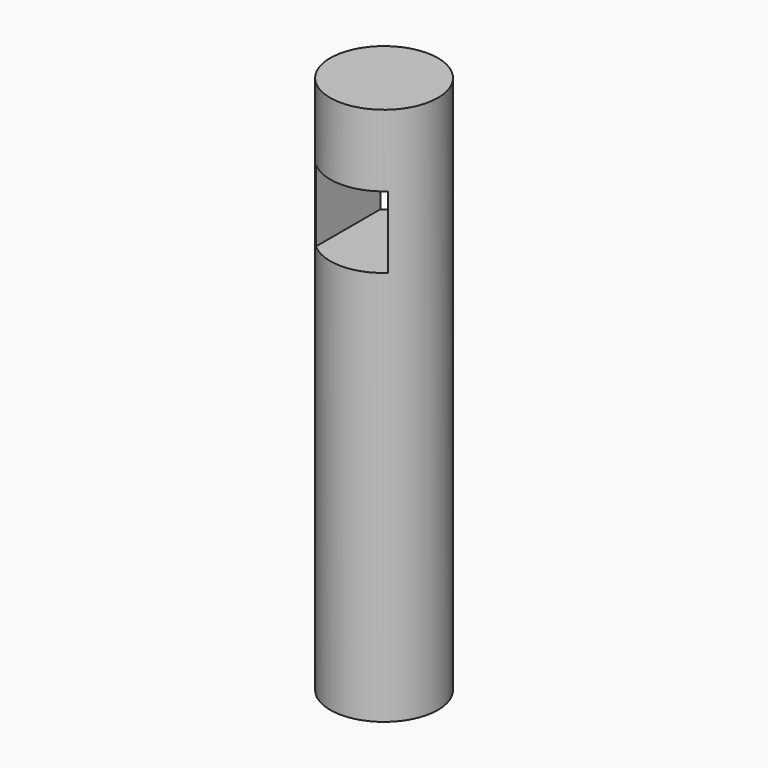
from build123d import *

# Parameters (mm, degrees)
F0_R     = 15
F1_DEPTH = 150
F2_W     = 20
F2_H     = 20
F3_DEPTH = 25


with BuildPart() as f1:
    # F0 (on Top) → F1 (new body)
    with BuildSketch(Plane.XY):
        Circle(F0_R)
    extrude(amount=F1_DEPTH)

    # F2 (on Front) → F3 (cut, symmetric)
    with BuildSketch(Plane.XZ):
        with Locations((0, 120)):
            Rectangle(F2_W, F2_H)
    extrude(amount=F3_DEPTH, both=True, mode=Mode.SUBTRACT)


solid = f1.part
